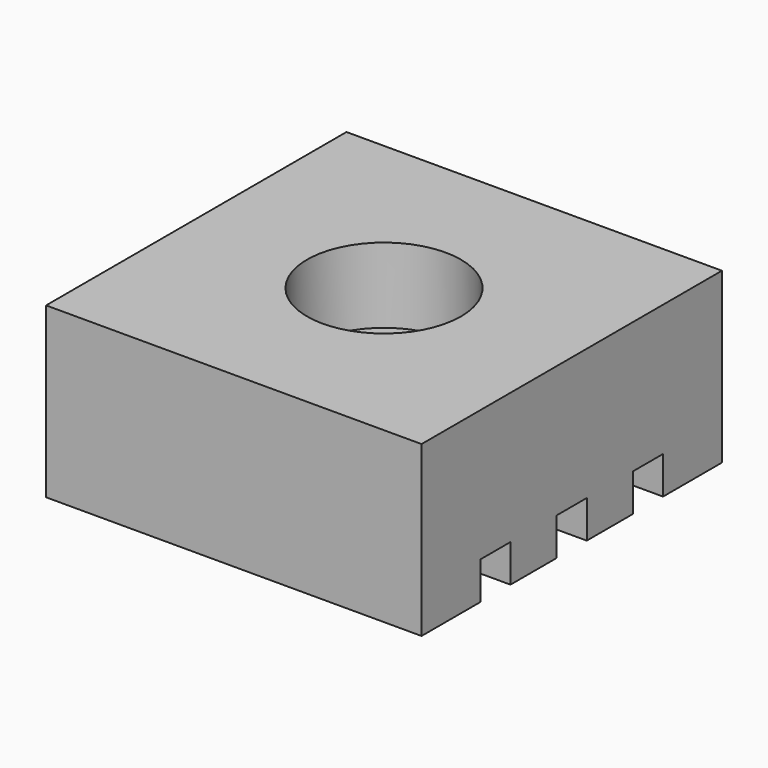
from build123d import *

# Parameters (mm, degrees)
SKETCH_W        = 10
SKETCH_H        = 10
PAD_DEPTH       = 4.5
SKETCH001_R     = 2.05
POCKET_DEPTH    = 2
SKETCH006_W     = 6
SKETCH006_H     = 8
SKETCH006_W_2   = 2.5
SKETCH006_H_2   = 2.5
POCKET003_DEPTH = 0.1
SKETCH007_R     = 0.5
POCKET004_DEPTH = 0.1
SKETCH008_W     = 1
SKETCH008_H     = 1
POCKET005_DEPTH = 1


with BuildPart() as part:
    # Sketch → Pad (new body)
    with BuildSketch(Plane.XY):
        with Locations((5, 5)):
            Rectangle(SKETCH_W, SKETCH_H)
    extrude(amount=PAD_DEPTH)

    # Sketch001 (on Face6 of Pad) → Pocket (cut)
    with BuildSketch(Plane.XY.offset(4.5)):
        with Locations((5, 5)):
            Circle(SKETCH001_R)
    extrude(amount=-POCKET_DEPTH, mode=Mode.SUBTRACT)

    # Sketch006 → Pocket003 (cut)
    with BuildSketch(Plane.XY):
        with Locations((5, 5)):
            Rectangle(SKETCH006_W, SKETCH006_H)
        with Locations((5, 5)):
            Rectangle(SKETCH006_W_2, SKETCH006_H_2, mode=Mode.SUBTRACT)
    extrude(amount=POCKET003_DEPTH, mode=Mode.SUBTRACT)

    # Sketch007 → Pocket004 (cut)
    with BuildSketch(Plane.XY):
        with Locations((5, 5)):
            Circle(SKETCH007_R)
    extrude(amount=POCKET004_DEPTH, mode=Mode.SUBTRACT)

    # Sketch008 → Pocket005 (cut)
    with BuildSketch(Plane.XY):
        with Locations((0.5, 7.54)):
            Rectangle(SKETCH008_W, SKETCH008_H)
        with Locations((0.5, 5)):
            Rectangle(SKETCH008_W, SKETCH008_H)
        with Locations((0.5, 2.46)):
            Rectangle(SKETCH008_W, SKETCH008_H)
        with Locations((9.5, 7.54)):
            Rectangle(SKETCH008_W, SKETCH008_H)
        with Locations((9.5, 5)):
            Rectangle(SKETCH008_W, SKETCH008_H)
        with Locations((9.5, 2.46)):
            Rectangle(SKETCH008_W, SKETCH008_H)
    extrude(amount=POCKET005_DEPTH, mode=Mode.SUBTRACT)


solid = part.part
